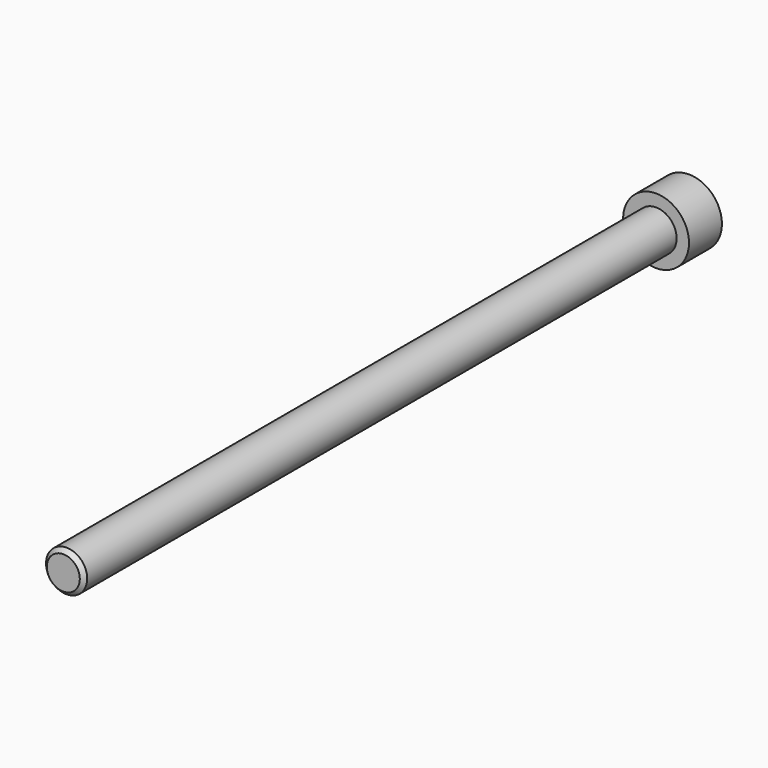
from build123d import *

# Parameters (mm, degrees)
F0_R     = 8
F0_R_2   = 5
F1_DEPTH = 10
F2_DEPTH = 180
F3_SIZE  = 1


with BuildPart() as f1:
    # F0 (on Front) → F1 (new body)
    with BuildSketch(Plane.XZ):
        Circle(F0_R)
        Circle(F0_R_2, mode=Mode.SUBTRACT)
        Circle(F0_R_2)
    extrude(amount=-F1_DEPTH)

    # F0 (on Front) → F2 (join)
    with BuildSketch(Plane.XZ):
        Circle(F0_R_2)
    extrude(amount=F2_DEPTH)

    # F3
    f3_edges = [f1.edges().sort_by_distance(p)[0] for p in [
        (-5, -180, 0),
    ]]
    chamfer(f3_edges, length=F3_SIZE)


solid = f1.part
